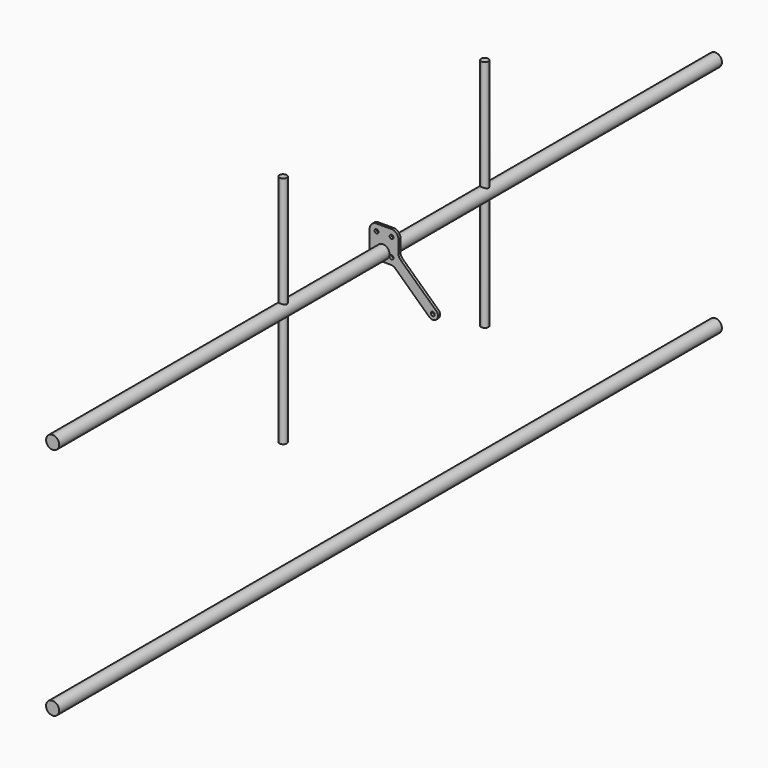
from build123d import *

# Parameters (mm, degrees)
F0_R     = 7.14375
F1_DEPTH = 4.7625
F2_R     = 24.13
F3_DEPTH = 1524
F4_R     = 13.335
F5_DEPTH = 430.53


with BuildPart() as f1:
    # F0 (on Front) → F1 (new body, symmetric)
    with BuildSketch(Plane.XZ):
        with BuildLine():
            Line((31.510166, 83.433357), (-23.734834, 83.433357))
            ThreePointArc((-23.734834, 83.433357), (-41.695346, 75.993869), (-49.134834, 58.033357))
            Line((-49.134834, 58.033357), (-49.134834, -7.701843))
            ThreePointArc((-49.134834, -7.701843), (-41.695346, -25.662355), (-23.734834, -33.101843))
            Line((-23.734834, -33.101843), (28.488076, -33.101843))
            ThreePointArc((28.488076, -33.101843), (37.791407, -34.866953), (45.801715, -39.91696))
            Line((45.801715, -39.91696), (170.442337, -156.031906))
            ThreePointArc((170.442337, -156.031906), (198.086385, -154.259654), (194.735293, -126.7623))
            Line((194.735293, -126.7623), (64.996527, -5.897934))
            ThreePointArc((64.996527, -5.897934), (59.019327, 2.553008), (56.910166, 12.68695))
            Line((56.910166, 12.68695), (56.910166, 58.033357))
            ThreePointArc((56.910166, 58.033357), (49.470679, 75.993869), (31.510166, 83.433357))
        make_face()
        with Locations((183.427566, -142.093243)):
            Circle(F0_R, mode=Mode.SUBTRACT)
        with Locations((-23.734834, -7.701843)):
            Circle(F0_R, mode=Mode.SUBTRACT)
        with Locations((31.510166, -7.701843)):
            Circle(F0_R, mode=Mode.SUBTRACT)
        with Locations((-23.734834, 58.033357)):
            Circle(F0_R, mode=Mode.SUBTRACT)
        with Locations((31.510166, 58.033357)):
            Circle(F0_R, mode=Mode.SUBTRACT)
    extrude(amount=F1_DEPTH, both=True)


with BuildPart() as f3:
    # F2 (on Front) → F3 (new body, symmetric)
    with BuildSketch(Plane.XZ):
        Circle(F2_R)
        with Locations((0, -861.06)):
            Circle(F2_R)
    extrude(amount=F3_DEPTH, both=True)


with BuildPart() as f5:
    # F4 (on Top) → F5 (new body, symmetric)
    with BuildSketch(Plane.XY):
        with Locations((0, 463.55)):
            Circle(F4_R)
        with Locations((0, -463.55)):
            Circle(F4_R)
    extrude(amount=F5_DEPTH, both=True)


solid = Compound([f1.part, f3.part, f5.part])
